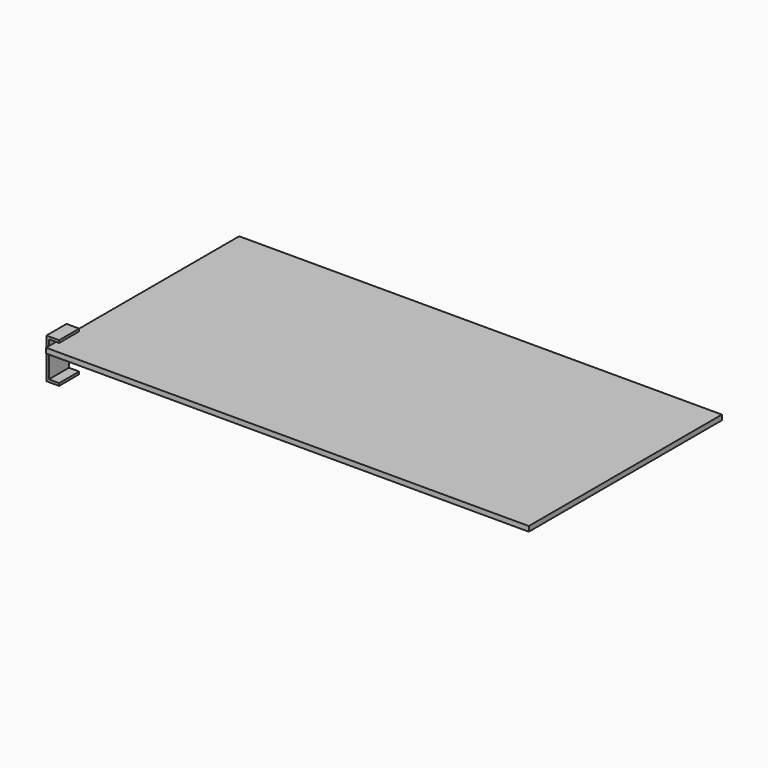
from build123d import *

# Parameters (mm, degrees)
F0_W     = 2438.4
F0_H     = 1219.2
F1_DEPTH = 25.4
F4_DEPTH = 127


with BuildPart() as f1:
    # F0 (on Top) → F1 (new body)
    with BuildSketch(Plane.XY):
        with Locations((0, 37.9918139073)):
            Rectangle(F0_W, F0_H)
    extrude(amount=F1_DEPTH)


with BuildPart() as f4:
    # F3 (on offset) → F4 (new body)
    with BuildSketch(Plane.XZ.offset(546.2081860927)):
        Polygon((-1225.55, 63.1698), (-1237.9198, 63.1698), (-1237.9198, -8.0521171277), (-1237.9198, -127.6604), (-1237.9198, -140.0302), (-1225.55, -140.0302), (-1173.734, -140.0302), (-1173.734, -127.6604), (-1225.55, -127.6604), (-1225.55, 50.8), (-1173.734, 50.8), (-1173.734, 63.1698), align=None)
    extrude(amount=-F4_DEPTH)


solid = Compound([f1.part, f4.part])
